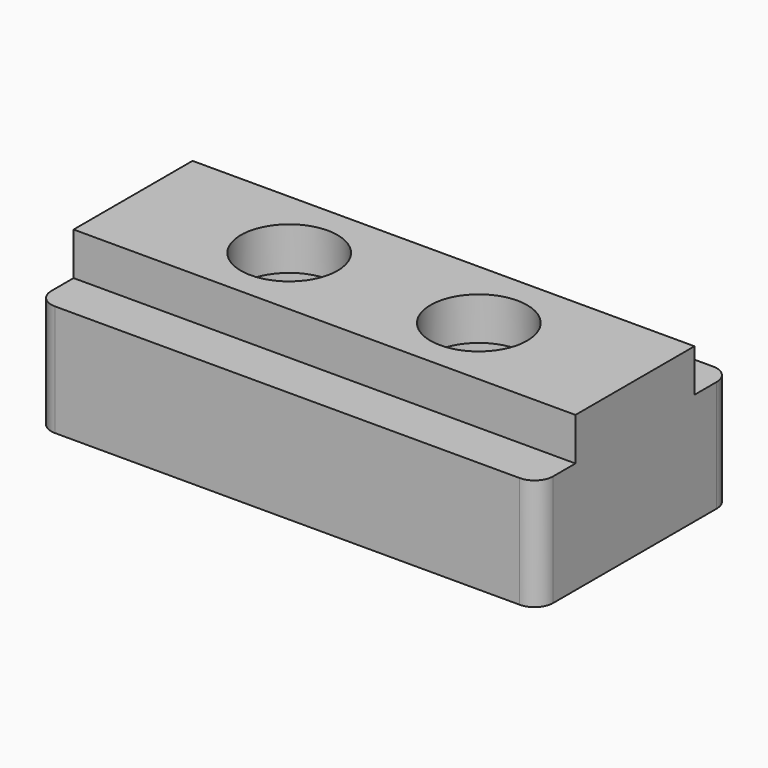
from build123d import *

# Parameters (mm, degrees)
PAD_DEPTH       = 6
SKETCH001_R     = 4
POCKET_DEPTH    = 6.001
SKETCH002_W     = 27
SKETCH002_H     = 8
PAD001_DEPTH    = 2.3
SKETCH003_R     = 2.6
POCKET001_DEPTH = 2.301


with BuildPart() as part:
    # Sketch → Pad (new body)
    with BuildSketch(Plane.XY):
        with BuildLine():
            Line((-12.5, 6.5), (12.5, 6.5))
            ThreePointArc((13.5, 5.5), (13.207107, 6.207107), (12.5, 6.5))
            Line((13.5, 5.5), (13.5, -5.5))
            ThreePointArc((12.5, -6.5), (13.207107, -6.207107), (13.5, -5.5))
            Line((12.5, -6.5), (-12.5, -6.5))
            ThreePointArc((-13.5, -5.5), (-13.207107, -6.207107), (-12.5, -6.5))
            Line((-13.5, -5.5), (-13.5, 5.5))
            ThreePointArc((-12.5, 6.5), (-13.207107, 6.207107), (-13.5, 5.5))
        make_face()
    extrude(amount=PAD_DEPTH)

    # Sketch001 (on Face10 of Pad) → Pocket (cut, through all)
    with BuildSketch(Plane.XY.offset(6)):
        with Locations((-5.1, 0)):
            Circle(SKETCH001_R)
        with Locations((5.1, 0)):
            Circle(SKETCH001_R)
    extrude(amount=-POCKET_DEPTH, mode=Mode.SUBTRACT)

    # Sketch002 (on Face5 of Pocket) → Pad001 (join)
    with BuildSketch(Plane.XY.offset(6)):
        Rectangle(SKETCH002_W, SKETCH002_H)
    extrude(amount=PAD001_DEPTH)

    # Sketch003 (on Face18 of Pad001) → Pocket001 (cut, through all)
    with BuildSketch(Plane(origin=(0, 0, 6), x_dir=(1, 0, 0), z_dir=(0, 0, -1))):
        with Locations((-5.1, 0)):
            Circle(SKETCH003_R)
        with Locations((5.1, 0)):
            Circle(SKETCH003_R)
    extrude(amount=-POCKET001_DEPTH, mode=Mode.SUBTRACT)


solid = part.part
